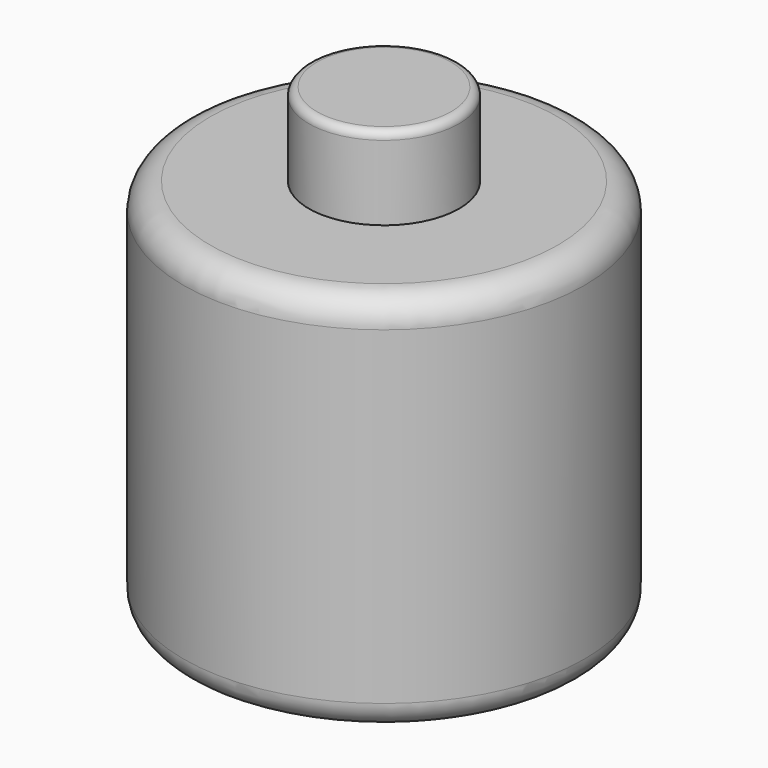
from build123d import *

# Parameters (mm, degrees)
F0_R     = 38.158283
F1_DEPTH = 72.74499
F2_R     = 5.08
F3_R     = 14.290577
F4_DEPTH = 15.7517
F5_R     = 1.524


with BuildPart() as f1:
    # F0 (on Top) → F1 (new body)
    with BuildSketch(Plane.XY):
        Circle(F0_R)
    extrude(amount=F1_DEPTH)

    # F2
    f2_edges = [f1.edges().sort_by_distance(p)[0] for p in [
        (-38.158283, 0, 72.74499),
        (-38.158283, 0, 0),
    ]]
    fillet(f2_edges, radius=F2_R)

    # F3 (on face) → F4 (join)
    with BuildSketch(Plane.XY.offset(72.74499)):
        Circle(F3_R)
    extrude(amount=F4_DEPTH)

    # F5
    f5_edges = [f1.edges().sort_by_distance(p)[0] for p in [
        (-14.290577, 0, 88.49669),
    ]]
    fillet(f5_edges, radius=F5_R)


solid = f1.part
